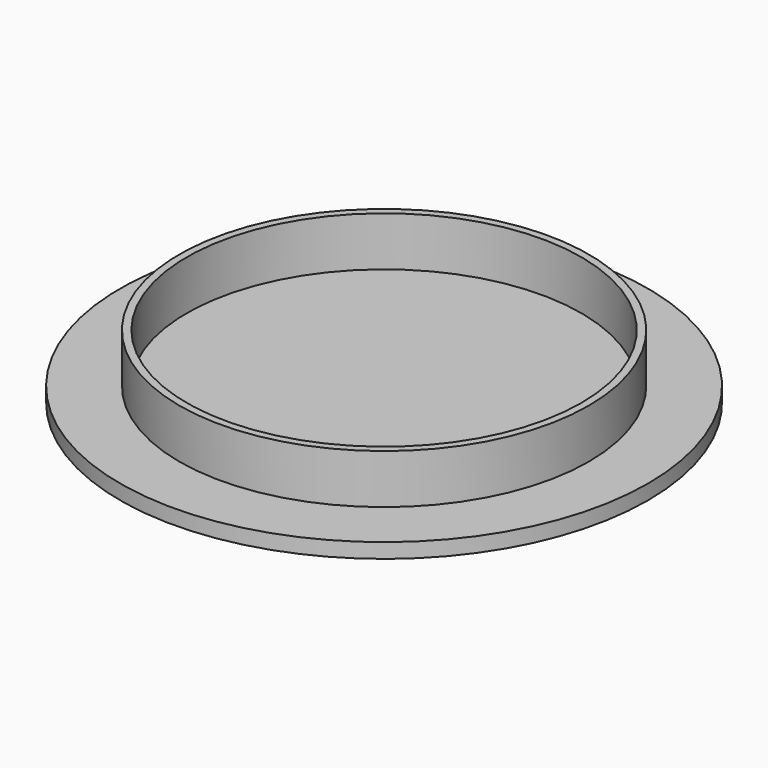
from build123d import *

# Parameters (mm, degrees)
F0_R     = 53.5
F0_R_2   = 41.4
F0_R_3   = 39.9
F1_DEPTH = 3
F2_R     = 41.5
F2_R_2   = 40
F3_DEPTH = 10


with BuildPart() as f1:
    # F0 (on Top) → F1 (new body)
    with BuildSketch(Plane.XY):
        Circle(F0_R)
        Circle(F0_R_2, mode=Mode.SUBTRACT)
        Circle(F0_R_2)
        Circle(F0_R_3, mode=Mode.SUBTRACT)
        Circle(F0_R_3)
    extrude(amount=F1_DEPTH)

    # F2 (on face) → F3 (join)
    with BuildSketch(Plane.XY.offset(3)):
        Circle(F2_R)
        Circle(F2_R_2, mode=Mode.SUBTRACT)
    extrude(amount=F3_DEPTH)


solid = f1.part
